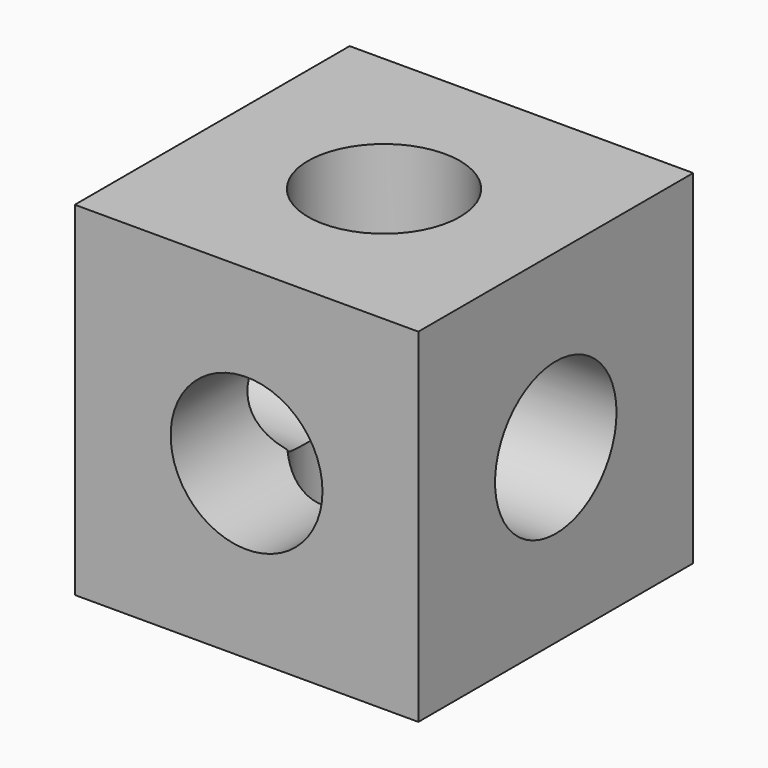
from build123d import *

# Parameters (mm, degrees)
F0_W     = 43.688
F0_H     = 43.688
F0_R     = 9.652
F1_DEPTH = 43.688
F2_R     = 9.652
F3_DEPTH = 43.689
F4_R     = 9.652
F5_DEPTH = 43.689


with BuildPart() as f1:
    # F0 (on Front) → F1 (new body)
    with BuildSketch(Plane.XZ):
        with Locations((-21.844, 21.844)):
            Rectangle(F0_W, F0_H)
        with Locations((-21.844, 21.844)):
            Circle(F0_R, mode=Mode.SUBTRACT)
    extrude(amount=F1_DEPTH)

    # F2 (on face) → F3 (cut, through all)
    with BuildSketch(Plane(origin=(0, 0, 0), x_dir=(1, 0, 0), z_dir=(0, 0, -1))):
        with Locations((-21.844, 21.844)):
            Circle(F2_R)
    extrude(amount=-F3_DEPTH, mode=Mode.SUBTRACT)

    # F4 (on Right) → F5 (cut, through all)
    with BuildSketch(Plane.YZ):
        with Locations((-21.844, 21.844)):
            Circle(F4_R)
    extrude(amount=-F5_DEPTH, mode=Mode.SUBTRACT)


solid = f1.part
